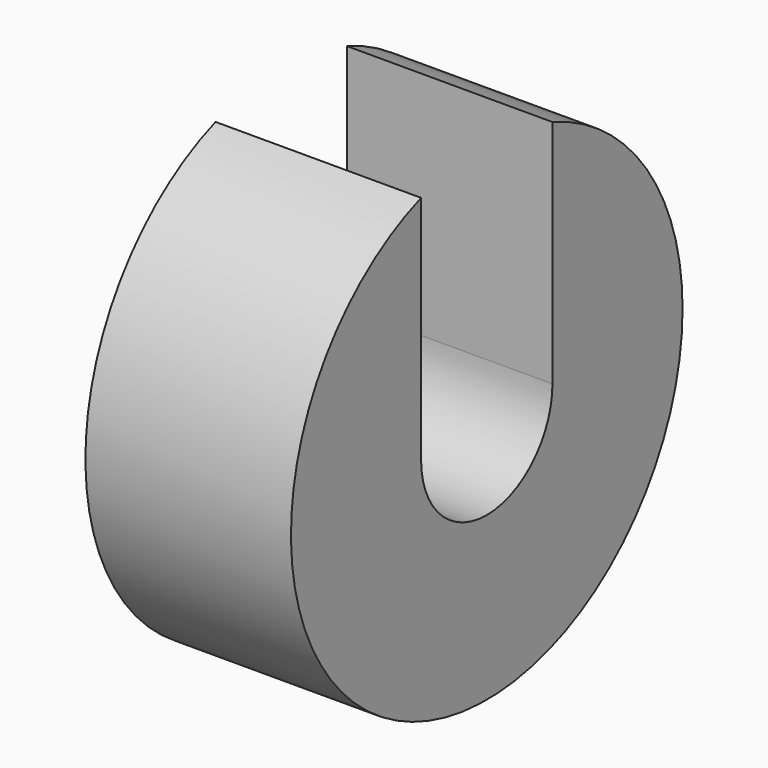
from build123d import *

# Parameters (mm, degrees)
F1_DEPTH = 8


with BuildPart() as f1:
    # F0 (on Right) → F1 (new body, symmetric)
    with BuildSketch(Plane.YZ):
        with BuildLine():
            ThreePointArc((6.3896875, 0), (0, -6.3896875), (-6.3896875, 0))
            Line((-6.3896875, 0), (-6.3896875, 17.9464312233))
            ThreePointArc((-6.3896875, 17.9464312233), (-10.9813239895, -15.5664068891), (19.05, 0))
            ThreePointArc((19.05, 0), (15.5664068891, 10.9813239895), (6.3896875, 17.9464312233))
            Line((6.3896875, 17.9464312233), (6.3896875, 0))
        make_face()
    extrude(amount=F1_DEPTH, both=True)


solid = f1.part
